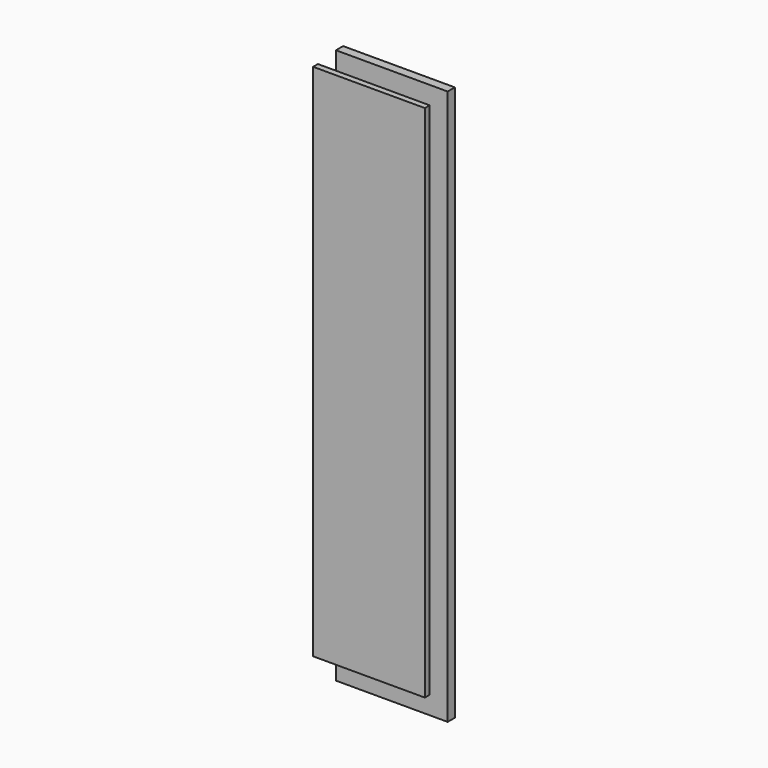
from build123d import *

# Parameters (mm, degrees)
F0_W     = 86.5
F0_H     = 370
F1_DEPTH = 10
F3_DEPTH = 4
F4_W     = 12
F4_H     = 370
F5_DEPTH = 6


with BuildPart() as f1:
    # F0 (on Front) → F1 (new body)
    with BuildSketch(Plane.XZ):
        Rectangle(F0_W, F0_H)
    extrude(amount=F1_DEPTH)

    # F2 (on face) → F3 (cut)
    with BuildSketch(Plane.XZ.offset(10)):
        Polygon((-43.25, 185), (-43.25, 173), (31.25, 173), (31.25, -173), (-43.25, -173), (-43.25, -185), (43.25, -185), (43.25, 185), align=None)
    extrude(amount=-F3_DEPTH, mode=Mode.SUBTRACT)

    # F4 (on face) → F5 (cut)
    with BuildSketch(Plane(origin=(0, 0, 0), x_dir=(-1, 0, 0), z_dir=(0, 1, 0))):
        with Locations((37.25, 0)):
            Rectangle(F4_W, F4_H)
    extrude(amount=-F5_DEPTH, mode=Mode.SUBTRACT)


solid = f1.part
